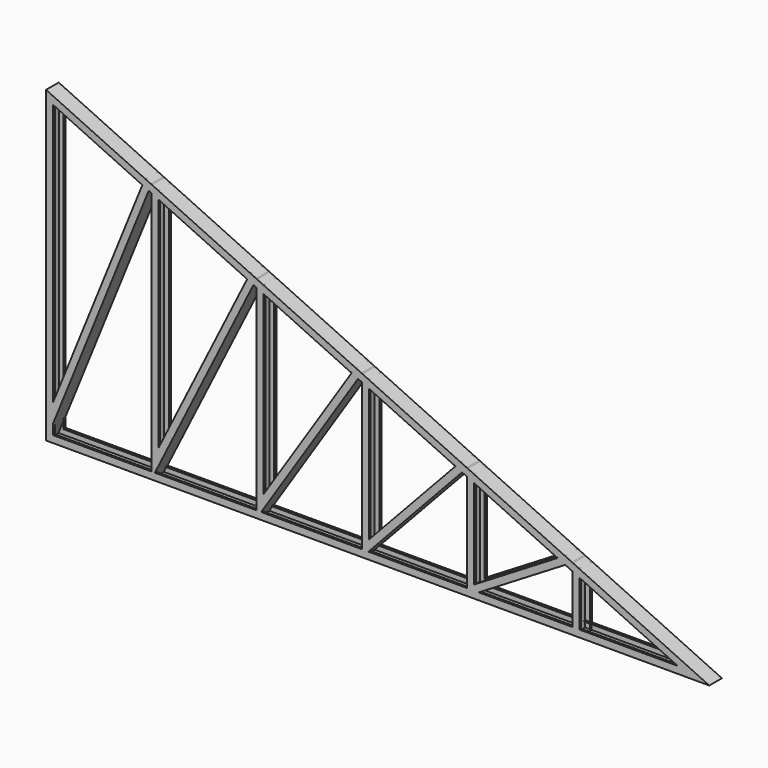
from build123d import *

# Parameters (mm, degrees)
F10_W     = 105.2292361856
F10_H     = 215.5710458755
F11_DEPTH = 4169.6532636786
F12_W     = 59.9013082683
F12_H     = 95.3600388765
F13_DEPTH = 1760.0010000002


with BuildPart() as f2:
    # F2: sweep along a path in F0
    with BuildLine(Plane.XZ) as f2_path:
        Line((0, 0), (3780, 0))
        Line((3780, 0), (0, 1760))
        Line((0, 1760), (0, 0))
    # F1 (on Right) → F2 (sweep)
    with BuildSketch(Plane.YZ):
        Polygon((-45, 0), (0, 0), (45, 0), (45, 40), (33, 40), (33, 37), (42, 37), (42, 3), (0, 3), (-42, 3), (-42, 37), (-33, 37), (-33, 40), (-45, 40), align=None)
    sweep(path=f2_path.line, transition=Transition.RIGHT)

    # F8: sweep along a path in F3
    with BuildLine(Plane.XZ) as f8_path:
        Line((0, 0), (600, 1480.6349206349))
        Line((600, 1480.6349206349), (600, 0))
        Line((600, 0), (1200, 1201.2698412698))
        Line((1200, 1201.2698412698), (1200, 0))
        Line((1200, 0), (1800, 921.9047619048))
        Line((1800, 921.9047619048), (1800, 0))
        Line((1800, 0), (2400, 642.5396825397))
        Line((2400, 642.5396825397), (2400, 0))
        Line((2400, 0), (3000, 363.1746031746))
        Line((3000, 363.1746031746), (3000, 0))
    # F7 (on offset) → F8 (sweep)
    with BuildSketch(Plane(origin=(46.9458411009, 0, 115.8494195209), x_dir=(0.9267953562, 0, -0.3755667288), z_dir=(0.3755667288, 0, 0.9267953562))):
        Polygon((0, -45), (0, 0), (0, 45), (-40, 45), (-40, 33), (-37, 33), (-37, 42), (-3, 42), (-3, 0), (-3, -42), (-37, -42), (-37, -33), (-40, -33), (-40, -45), align=None)
    sweep(path=f8_path.line, transition=Transition.RIGHT)

    # F10 (on face) → F11 (cut, through all)
    with BuildSketch(Plane(origin=(-673.4687679742, 0, 313.5727596917), x_dir=(0, -1, 0), z_dir=(-0.9065504174, 0, 0.4220975488))):
        with Locations((-7.6146180928, 1703.3142575404)):
            Rectangle(F10_W, F10_H)
    extrude(amount=-F11_DEPTH, mode=Mode.SUBTRACT)

    # F12 (on face) → F13 (cut, through all)
    with BuildSketch(Plane(origin=(0, 0, 0), x_dir=(1, 0, 0), z_dir=(0, 0, -1))):
        with Locations((-29.9506541342, -2.6800194383)):
            Rectangle(F12_W, F12_H)
    extrude(amount=-F13_DEPTH, mode=Mode.SUBTRACT)


solid = f2.part
